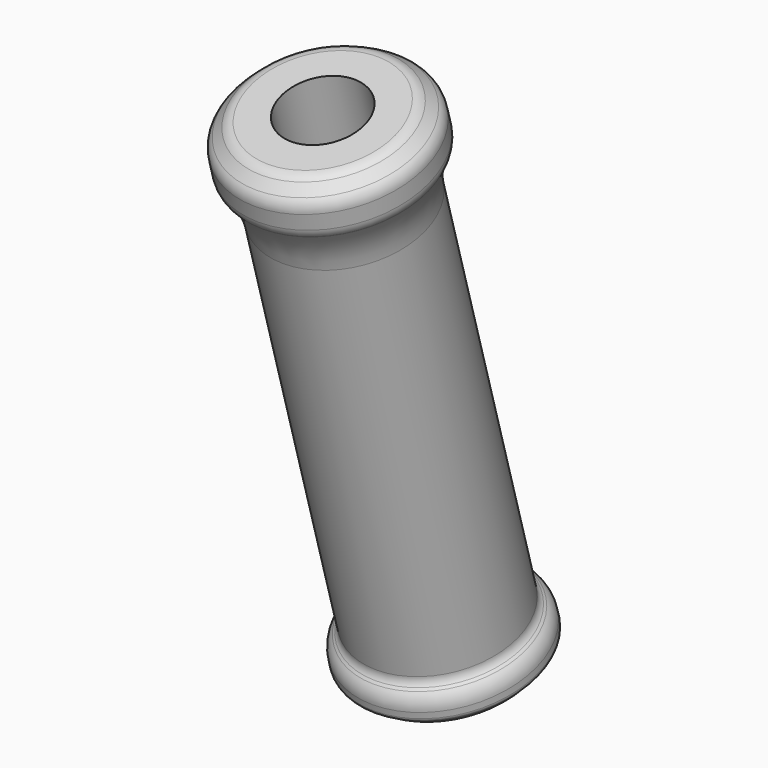
from build123d import *


with BuildPart() as f1:
    # F0 (on Right) → F1 (revolve)
    with BuildSketch(Plane.YZ):
        with BuildLine():
            Line((31.105115, 15.177073), (27.291279, 28.44259))
            Line((27.291279, 28.44259), (26.590127, 28.241009))
            ThreePointArc((26.590127, 28.241009), (26.476203, 28.183727), (26.390879, 28.088965))
            Line((26.390879, 28.088965), (26.234516, 27.832258))
            ThreePointArc((26.234516, 27.832258), (26.177703, 27.671818), (26.190149, 27.502072))
            Line((26.190149, 27.502072), (26.299984, 27.120038))
            ThreePointArc((26.299984, 27.120038), (26.346602, 27.01528), (26.420135, 26.9273))
            Line((26.420135, 26.9273), (26.429431, 26.918883))
            ThreePointArc((26.429431, 26.918883), (26.807202, 26.466891), (27.046701, 25.928702))
            Line((27.046701, 25.928702), (29.879511, 16.075449))
            ThreePointArc((29.879511, 16.075449), (29.888727, 15.962935), (29.853784, 15.855589))
            Line((29.853784, 15.855589), (29.817586, 15.791317))
            ThreePointArc((29.817586, 15.791317), (29.751576, 15.588532), (29.768987, 15.375985))
            Line((29.768987, 15.375985), (29.812364, 15.225108))
            ThreePointArc((29.812364, 15.225108), (29.833939, 15.183248), (29.869867, 15.152803))
            Line((29.869867, 15.152803), (30.120786, 15.013424))
            ThreePointArc((30.120786, 15.013424), (30.26602, 14.966855), (30.41801, 14.97953))
            Line((30.41801, 14.97953), (31.105115, 15.177073))
        make_face()
    revolve(axis=Axis((0, 30.159266, 22.086139), (0, 0.276307, -0.961069)))


solid = f1.part
